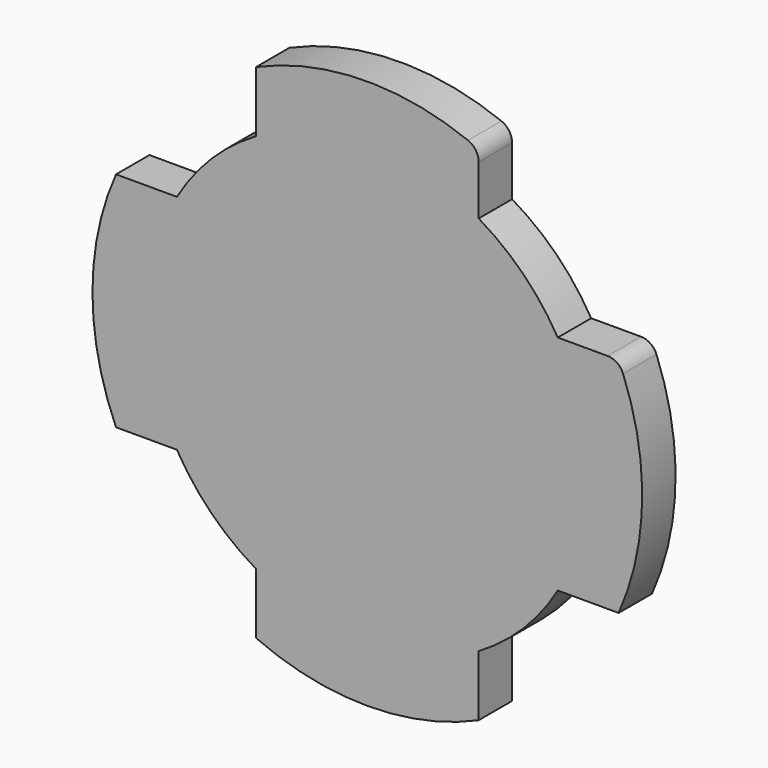
from build123d import *

# Parameters (mm, degrees)
F1_DEPTH = 1.5


with BuildPart() as f1:
    # F0 (on Front) → F1 (new body)
    with BuildSketch(Plane.XZ):
        with BuildLine():
            ThreePointArc((6.841464, -4), (7.649321, -2.072079), (7.925, 0))
            ThreePointArc((7.925, 0), (7.649321, 2.072079), (6.841464, 4))
            ThreePointArc((6.841464, 4), (5.603821, 5.603821), (4, 6.841464))
            ThreePointArc((4, 6.841464), (0, 7.925), (-4, 6.841464))
            ThreePointArc((-4, 6.841464), (-5.603821, 5.603821), (-6.841464, 4))
            ThreePointArc((-6.841464, 4), (-7.925, 0), (-6.841464, -4))
            ThreePointArc((-6.841464, -4), (-5.603821, -5.603821), (-4, -6.841464))
            ThreePointArc((-4, -6.841464), (0, -7.925), (4, -6.841464))
            ThreePointArc((4, -6.841464), (5.603821, -5.603821), (6.841464, -4))
        make_face()
        with BuildLine():
            ThreePointArc((-6.841464, -4), (-7.925, 0), (-6.841464, 4))
            Line((-6.841464, 4), (-9.0286, 4))
            ThreePointArc((-9.0286, 4), (-9.875, 0), (-9.0286, -4))
            Line((-9.0286, -4), (-6.841464, -4))
        make_face()
        with BuildLine():
            ThreePointArc((-4, 6.841464), (0, 7.925), (4, 6.841464))
            Line((4, 6.841464), (4, 8.629347))
            ThreePointArc((4, 8.629347), (3.895968, 8.96701), (3.619946, 9.187579))
            ThreePointArc((3.619946, 9.187579), (-0.205983, 9.872851), (-4, 9.0286))
            Line((-4, 9.0286), (-4, 6.841464))
        make_face()
        with BuildLine():
            Line((4, -9.0286), (4, -6.841464))
            ThreePointArc((4, -6.841464), (0, -7.925), (-4, -6.841464))
            Line((-4, -6.841464), (-4, -9.0286))
            ThreePointArc((-4, -9.0286), (0, -9.875), (4, -9.0286))
        make_face()
        with BuildLine():
            ThreePointArc((6.841464, 4), (7.649321, 2.072079), (7.925, 0))
            ThreePointArc((7.925, 0), (7.649321, -2.072079), (6.841464, -4))
            Line((6.841464, -4), (9.0286, -4))
            ThreePointArc((9.0286, -4), (9.872851, -0.205983), (9.187579, 3.619946))
            ThreePointArc((9.187579, 3.619946), (8.96701, 3.895968), (8.629347, 4))
            Line((8.629347, 4), (6.841464, 4))
        make_face()
    extrude(amount=F1_DEPTH)


solid = f1.part
